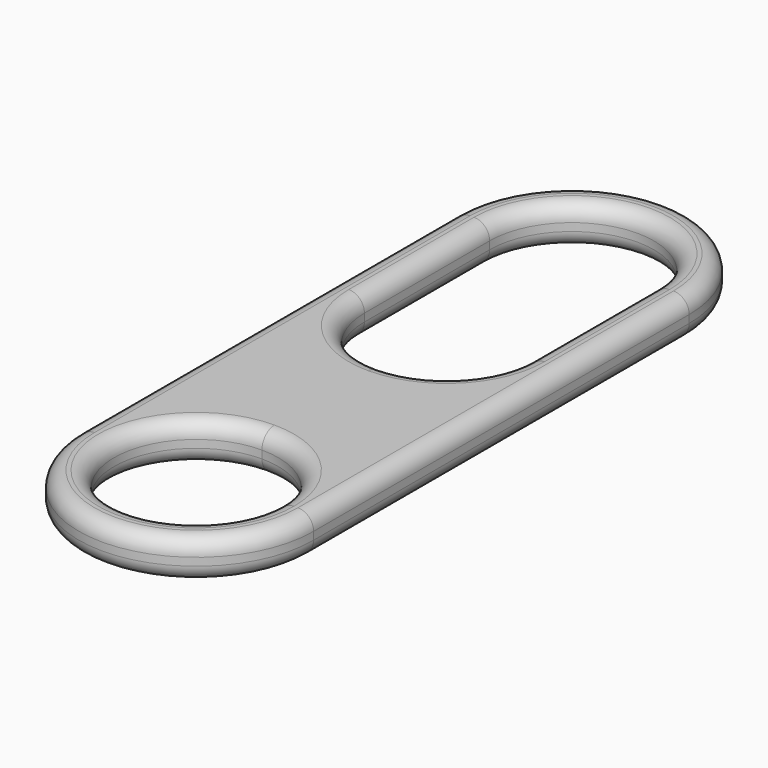
from build123d import *

# Parameters (mm, degrees)
F1_DEPTH = 5
F2_R     = 2
F3_R     = 2


with BuildPart() as f1:
    # F0 (on Top) → F1 (new body)
    with BuildSketch(Plane.XY):
        with BuildLine():
            ThreePointArc((15, 30), (0, 45), (-15, 30))
            Line((-15, 30), (-15, -30))
            ThreePointArc((-15, -30), (0, -45), (15, -30))
            Line((15, -30), (15, 30))
        make_face()
        with BuildLine():
            ThreePointArc((10.5, -30), (-7.4246212025, -37.4246212025), (0, -19.5))
            ThreePointArc((0, -19.5), (7.4246212025, -22.5753787975), (10.5, -30))
        make_face(mode=Mode.SUBTRACT)
        with BuildLine():
            ThreePointArc((10.5, 10), (7.4246212025, 2.5753787975), (0, -0.5))
            ThreePointArc((0, -0.5), (-7.4246212025, 2.5753787975), (-10.5, 10))
            Line((-10.5, 10), (-10.5, 30))
            ThreePointArc((-10.5, 30), (0, 40.5), (10.5, 30))
            Line((10.5, 30), (10.5, 10))
        make_face(mode=Mode.SUBTRACT)
    extrude(amount=F1_DEPTH)

    # F2
    f2_edges = [f1.edges().sort_by_distance(p)[0] for p in [
        (0, 40.5, 5),
        (0, 40.5, 0),
        (15, 0, 0),
        (0, -40.5, 5),
        (0, -40.5, 0),
    ]]
    fillet(f2_edges, radius=F2_R)

    # F3
    f3_edges = [f1.edges().sort_by_distance(p)[0] for p in [
        (-15, 0, 5),
    ]]
    fillet(f3_edges, radius=F3_R)


solid = f1.part
